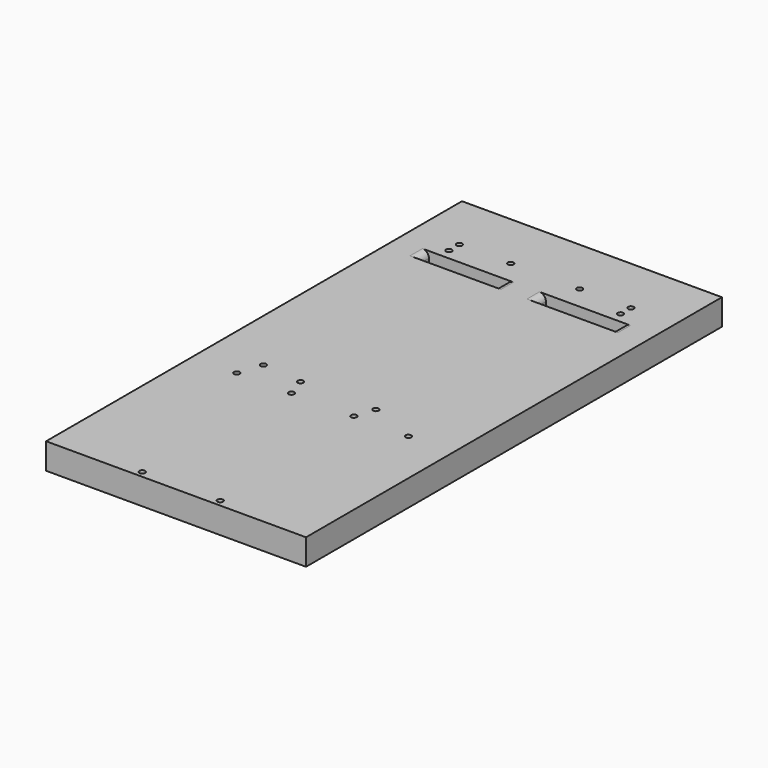
from build123d import *

# Parameters (mm, degrees)
F0_W     = 200
F0_H     = 400
F0_W_2   = 60
F0_H_2   = 12
F1_DEPTH = 20
F2_D     = 4.4
F3_R     = 5


with BuildPart() as f1:
    # F0 (on Top) → F1 (new body)
    with BuildSketch(Plane.XY):
        Rectangle(F0_W, F0_H)
        with Locations((-45, 131)):
            Rectangle(F0_W_2, F0_H_2, mode=Mode.SUBTRACT)
        with Locations((45, 131)):
            Rectangle(F0_W_2, F0_H_2, mode=Mode.SUBTRACT)
    extrude(amount=F1_DEPTH)

    # F2 (through all)
    with Locations(Plane(origin=(0, 0, 0), x_dir=(1, 0, 0), z_dir=(0, 0, -1))):
        with Locations((-26.5, -155), (26.5, -155), (-66, 59), (-24, 59), (24, 59), (66, 59), (-66, -155), (-66, -145), (66, -155), (66, -145), (-29, 44), (29, 44), (-30, 195), (30, 195), (-60, 41)):
            Hole(F2_D / 2)

    # F3
    f3_edges = [f1.edges().sort_by_distance(p)[0] for p in [
        (-75, 131, 20),
        (-15, 131, 20),
        (15, 131, 20),
        (75, 131, 20),
    ]]
    fillet(f3_edges, radius=F3_R)


solid = f1.part
